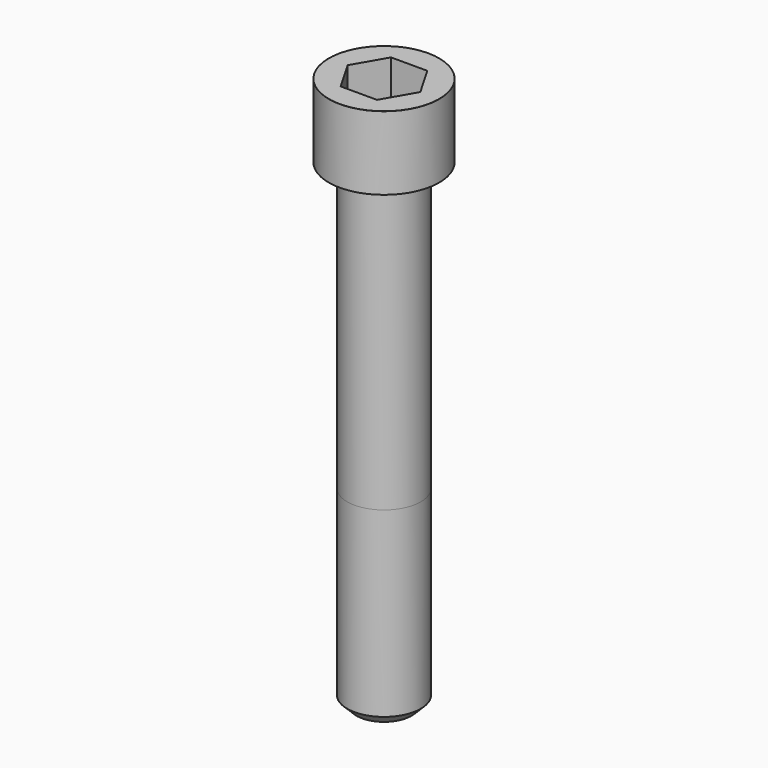
from build123d import *

# Parameters (mm, degrees)
POCKET_DEPTH = 17.1


with BuildPart() as part:
    # Sketch → Revolve (revolve)
    with BuildSketch(Plane.YZ):
        with BuildLine():
            Line((9.999, 0), (15, 0))
            Line((15, 0), (15, 19.97229))
            ThreePointArc((15, 19.97229), (14.991884, 19.991884), (14.97229, 20))
            Line((14.97229, 20), (0, 20))
            Line((0, -130), (0, 20))
            Line((7.5, -130), (0, -130))
            Line((10, -127.5), (7.5, -130))
            Line((10, -78), (10, -127.5))
            Line((9.999, 0), (10, -78))
        make_face()
    revolve(axis=Axis((0, 0, 0), (0, 0, 1)))

    # Sketch001 → Pocket (cut)
    with BuildSketch(Plane.XY.offset(20)):
        Polygon((9.87269, 0), (4.936345, 8.55), (-4.936345, 8.55), (-9.87269, 0), (-4.936345, -8.55), (4.936345, -8.55), align=None)
    extrude(amount=-POCKET_DEPTH, mode=Mode.SUBTRACT)


solid = part.part
